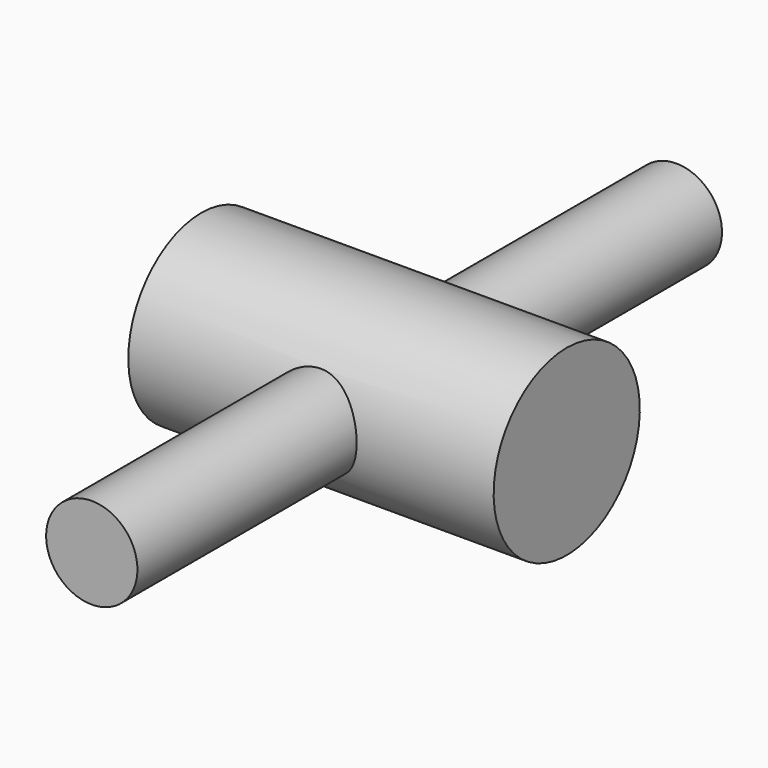
from build123d import *

# Parameters (mm, degrees)
F3_D     = 10
F3_DEPTH = 5
F3_TIP   = 3.0043030951
F4_DEPTH = 30


with BuildPart() as f1:
    # F0 (on Front) → F1 (revolve)
    with BuildSketch(Plane.XZ):
        with BuildLine():
            ThreePointArc((11.25, 0), (15, 3.75), (18.75, 0))
            Line((18.75, 0), (30, 0))
            Line((30, 0), (30, 7.5))
            Line((30, 7.5), (0, 7.5))
            Line((0, 7.5), (0, 0))
            Line((0, 0), (11.25, 0))
        make_face()
        with BuildLine():
            ThreePointArc((11.25, 0), (15, -3.75), (18.75, 0))
            Line((18.75, 0), (11.25, 0))
        make_face()
        with BuildLine():
            Line((11.25, 0), (18.75, 0))
            ThreePointArc((18.75, 0), (15, 3.75), (11.25, 0))
        make_face()
    revolve(axis=Axis((15, 0, 0), (1, 0, 0)))

    # F3
    with Locations(Plane(origin=(0, 0, 0), x_dir=(0, -1, 0), z_dir=(-1, 0, 0))):
        with Locations((0, 0)):
            Hole(F3_D / 2, depth=F3_DEPTH)
            with Locations((0, 0, -(F3_DEPTH + F3_TIP / 2))):  # 118° drill point
                Cone(0, F3_D / 2, F3_TIP, mode=Mode.SUBTRACT)

    # F0 (on Front) → F4 (join, symmetric)
    with BuildSketch(Plane.XZ):
        with BuildLine():
            Line((11.25, 0), (18.75, 0))
            ThreePointArc((18.75, 0), (15, 3.75), (11.25, 0))
        make_face()
        with BuildLine():
            ThreePointArc((11.25, 0), (15, -3.75), (18.75, 0))
            Line((18.75, 0), (11.25, 0))
        make_face()
    extrude(amount=F4_DEPTH, both=True)


solid = f1.part
